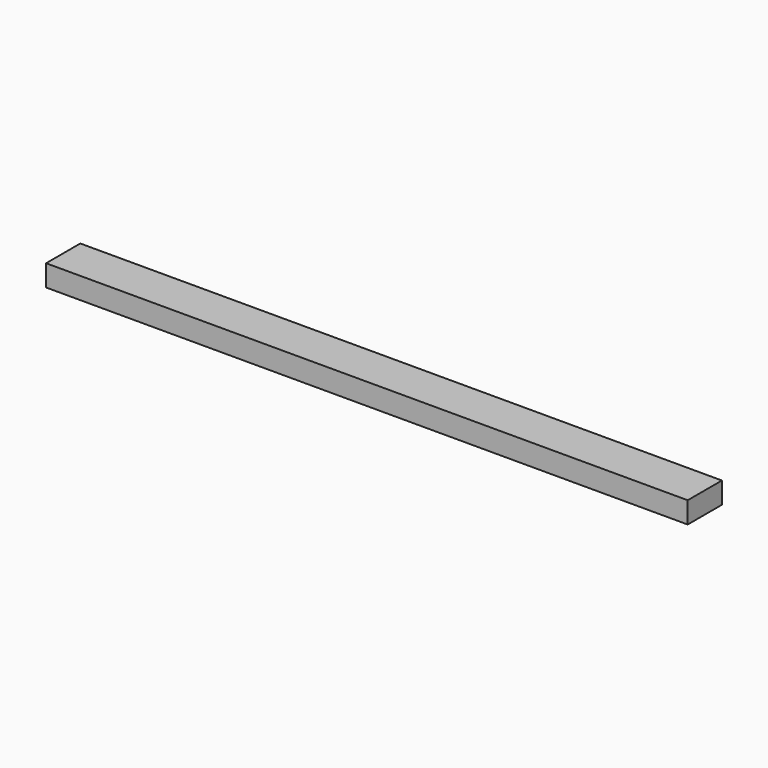
from build123d import *

# Parameters (mm, degrees)
SKETCH_W  = 20
SKETCH_H  = 10
PAD_DEPTH = 300


with BuildPart() as part:
    # Sketch → Pad (new body)
    with BuildSketch(Plane.YZ):
        Rectangle(SKETCH_W, SKETCH_H)
    extrude(amount=PAD_DEPTH)


solid = part.part
